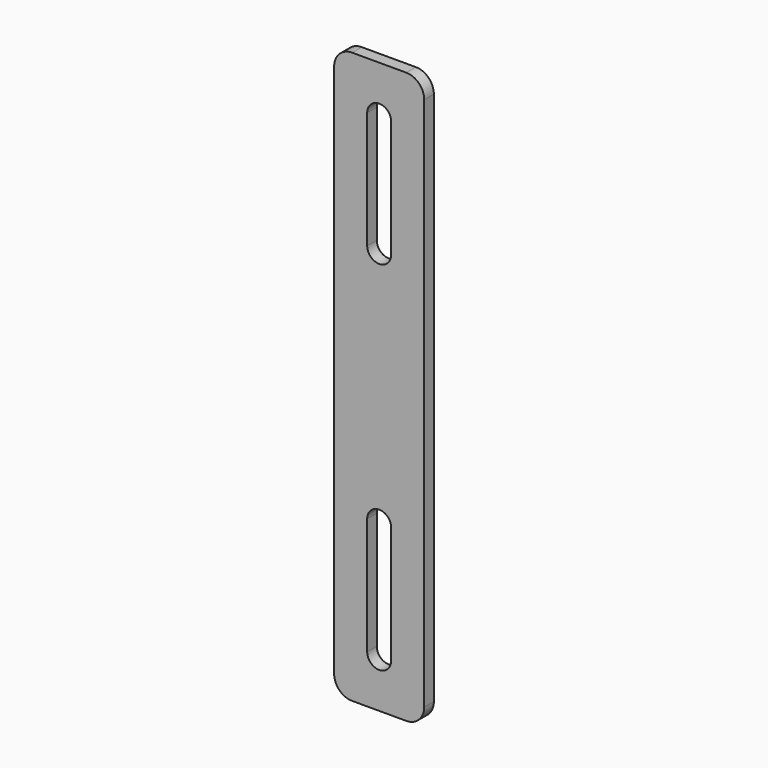
from build123d import *

# Parameters (mm, degrees)
F1_DEPTH = 2.54
F3_DEPTH = 2.541


with BuildPart() as f1:
    # F0 (on Front) → F1 (new body)
    with BuildSketch(Plane.XZ):
        with BuildLine():
            ThreePointArc((0, 3.81), (1.115923, 1.115923), (3.81, 0))
            Line((3.81, 0), (15.24, 0))
            ThreePointArc((15.24, 0), (17.934077, 1.115923), (19.05, 3.81))
            Line((19.05, 3.81), (19.05, 116.84))
            ThreePointArc((19.05, 116.84), (17.934077, 119.534077), (15.24, 120.65))
            Line((15.24, 120.65), (3.81, 120.65))
            ThreePointArc((3.81, 120.65), (1.115923, 119.534077), (0, 116.84))
            Line((0, 116.84), (0, 3.81))
        make_face()
    extrude(amount=F1_DEPTH)

    # F2 (on face) → F3 (cut, through all)
    with BuildSketch(Plane.XZ.offset(2.54)):
        with BuildLine():
            ThreePointArc((12.065, 110.49), (9.525, 113.03), (6.985, 110.49))
            Line((6.985, 110.49), (6.985, 85.725))
            ThreePointArc((6.985, 85.725), (9.525, 83.185), (12.065, 85.725))
            Line((12.065, 85.725), (12.065, 110.49))
        make_face()
        with BuildLine():
            ThreePointArc((6.985, 10.16), (9.525, 7.62), (12.065, 10.16))
            Line((12.065, 10.16), (12.065, 34.925))
            ThreePointArc((12.065, 34.925), (9.525, 37.465), (6.985, 34.925))
            Line((6.985, 34.925), (6.985, 10.16))
        make_face()
    extrude(amount=-F3_DEPTH, mode=Mode.SUBTRACT)


solid = f1.part
